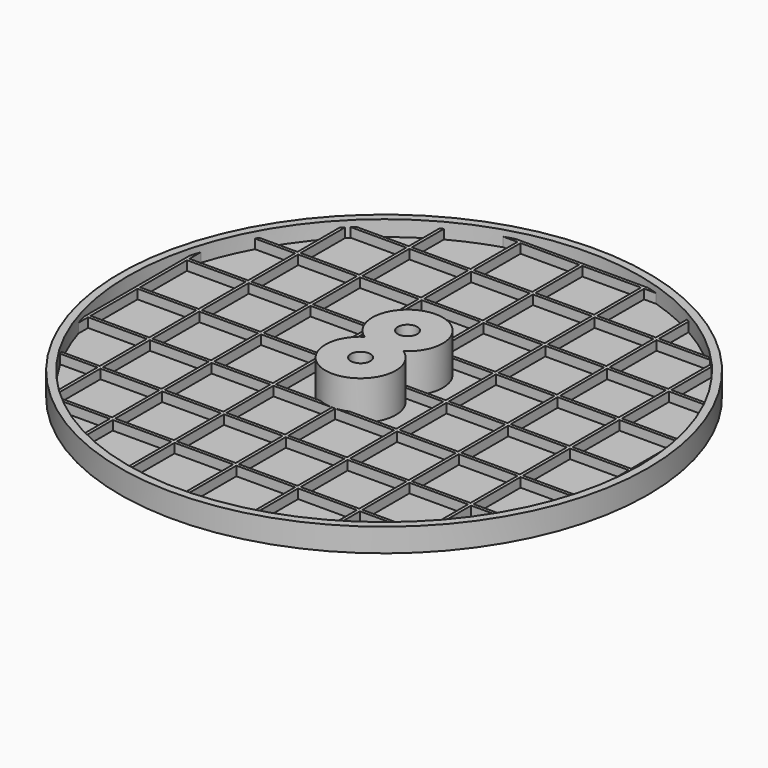
from build123d import *

# Parameters (mm, degrees)
SKETCH004_R   = 67.5
PAD002_DEPTH  = 6
SKETCH003_W   = 127.2
SKETCH003_H   = 127.2
SKETCH003_W_2 = 15
SKETCH003_H_2 = 15
PAD003_DEPTH  = 4.4
SKETCH_R      = 67.5
PAD_DEPTH     = 6
THICKNESS_T   = -2
SKETCH001_R   = 2.5
PAD001_DEPTH  = 10
SKETCH002_R   = 4.5
POCKET_DEPTH  = 4.4


with BuildPart() as body002:
    # Sketch004 → Pad002 (new body)
    with BuildSketch(Plane.XY):
        Circle(SKETCH004_R)
    extrude(amount=PAD002_DEPTH)


with BuildPart() as grid:
    # Sketch003 → Pad003 (new body)
    with BuildSketch(Plane.XY):
        with Locations((0.3, -0.3)):
            Rectangle(SKETCH003_W, SKETCH003_H)
        with Locations((-55, 55)):
            Rectangle(SKETCH003_W_2, SKETCH003_H_2, mode=Mode.SUBTRACT)
        with Locations((-39.2, 55)):
            Rectangle(SKETCH003_W_2, SKETCH003_H_2, mode=Mode.SUBTRACT)
        with Locations((-23.4, 55)):
            Rectangle(SKETCH003_W_2, SKETCH003_H_2, mode=Mode.SUBTRACT)
        with Locations((-7.6, 55)):
            Rectangle(SKETCH003_W_2, SKETCH003_H_2, mode=Mode.SUBTRACT)
        with Locations((-55, 39.2)):
            Rectangle(SKETCH003_W_2, SKETCH003_H_2, mode=Mode.SUBTRACT)
        with Locations((-39.2, 39.2)):
            Rectangle(SKETCH003_W_2, SKETCH003_H_2, mode=Mode.SUBTRACT)
        with Locations((-23.4, 39.2)):
            Rectangle(SKETCH003_W_2, SKETCH003_H_2, mode=Mode.SUBTRACT)
        with Locations((-7.6, 39.2)):
            Rectangle(SKETCH003_W_2, SKETCH003_H_2, mode=Mode.SUBTRACT)
        with Locations((-55, 23.4)):
            Rectangle(SKETCH003_W_2, SKETCH003_H_2, mode=Mode.SUBTRACT)
        with Locations((-39.2, 23.4)):
            Rectangle(SKETCH003_W_2, SKETCH003_H_2, mode=Mode.SUBTRACT)
        with Locations((-23.4, 23.4)):
            Rectangle(SKETCH003_W_2, SKETCH003_H_2, mode=Mode.SUBTRACT)
        with Locations((-7.6, 23.4)):
            Rectangle(SKETCH003_W_2, SKETCH003_H_2, mode=Mode.SUBTRACT)
        with Locations((-55, 7.6)):
            Rectangle(SKETCH003_W_2, SKETCH003_H_2, mode=Mode.SUBTRACT)
        with Locations((-39.2, 7.6)):
            Rectangle(SKETCH003_W_2, SKETCH003_H_2, mode=Mode.SUBTRACT)
        with Locations((-23.4, 7.6)):
            Rectangle(SKETCH003_W_2, SKETCH003_H_2, mode=Mode.SUBTRACT)
        with Locations((-7.6, 7.6)):
            Rectangle(SKETCH003_W_2, SKETCH003_H_2, mode=Mode.SUBTRACT)
        with Locations((8.2, 55)):
            Rectangle(SKETCH003_W_2, SKETCH003_H_2, mode=Mode.SUBTRACT)
        with Locations((24, 55)):
            Rectangle(SKETCH003_W_2, SKETCH003_H_2, mode=Mode.SUBTRACT)
        with Locations((39.8, 55)):
            Rectangle(SKETCH003_W_2, SKETCH003_H_2, mode=Mode.SUBTRACT)
        with Locations((55.6, 55)):
            Rectangle(SKETCH003_W_2, SKETCH003_H_2, mode=Mode.SUBTRACT)
        with Locations((8.2, 39.2)):
            Rectangle(SKETCH003_W_2, SKETCH003_H_2, mode=Mode.SUBTRACT)
        with Locations((24, 39.2)):
            Rectangle(SKETCH003_W_2, SKETCH003_H_2, mode=Mode.SUBTRACT)
        with Locations((39.8, 39.2)):
            Rectangle(SKETCH003_W_2, SKETCH003_H_2, mode=Mode.SUBTRACT)
        with Locations((55.6, 39.2)):
            Rectangle(SKETCH003_W_2, SKETCH003_H_2, mode=Mode.SUBTRACT)
        with Locations((8.2, 23.4)):
            Rectangle(SKETCH003_W_2, SKETCH003_H_2, mode=Mode.SUBTRACT)
        with Locations((24, 23.4)):
            Rectangle(SKETCH003_W_2, SKETCH003_H_2, mode=Mode.SUBTRACT)
        with Locations((39.8, 23.4)):
            Rectangle(SKETCH003_W_2, SKETCH003_H_2, mode=Mode.SUBTRACT)
        with Locations((55.6, 23.4)):
            Rectangle(SKETCH003_W_2, SKETCH003_H_2, mode=Mode.SUBTRACT)
        with Locations((8.2, 7.6)):
            Rectangle(SKETCH003_W_2, SKETCH003_H_2, mode=Mode.SUBTRACT)
        with Locations((24, 7.6)):
            Rectangle(SKETCH003_W_2, SKETCH003_H_2, mode=Mode.SUBTRACT)
        with Locations((39.8, 7.6)):
            Rectangle(SKETCH003_W_2, SKETCH003_H_2, mode=Mode.SUBTRACT)
        with Locations((55.6, 7.6)):
            Rectangle(SKETCH003_W_2, SKETCH003_H_2, mode=Mode.SUBTRACT)
        with Locations((-55, -8.2)):
            Rectangle(SKETCH003_W_2, SKETCH003_H_2, mode=Mode.SUBTRACT)
        with Locations((-39.2, -8.2)):
            Rectangle(SKETCH003_W_2, SKETCH003_H_2, mode=Mode.SUBTRACT)
        with Locations((-23.4, -8.2)):
            Rectangle(SKETCH003_W_2, SKETCH003_H_2, mode=Mode.SUBTRACT)
        with Locations((-7.6, -8.2)):
            Rectangle(SKETCH003_W_2, SKETCH003_H_2, mode=Mode.SUBTRACT)
        with Locations((-55, -24)):
            Rectangle(SKETCH003_W_2, SKETCH003_H_2, mode=Mode.SUBTRACT)
        with Locations((-39.2, -24)):
            Rectangle(SKETCH003_W_2, SKETCH003_H_2, mode=Mode.SUBTRACT)
        with Locations((-23.4, -24)):
            Rectangle(SKETCH003_W_2, SKETCH003_H_2, mode=Mode.SUBTRACT)
        with Locations((-7.6, -24)):
            Rectangle(SKETCH003_W_2, SKETCH003_H_2, mode=Mode.SUBTRACT)
        with Locations((-55, -39.8)):
            Rectangle(SKETCH003_W_2, SKETCH003_H_2, mode=Mode.SUBTRACT)
        with Locations((-39.2, -39.8)):
            Rectangle(SKETCH003_W_2, SKETCH003_H_2, mode=Mode.SUBTRACT)
        with Locations((-23.4, -39.8)):
            Rectangle(SKETCH003_W_2, SKETCH003_H_2, mode=Mode.SUBTRACT)
        with Locations((-7.6, -39.8)):
            Rectangle(SKETCH003_W_2, SKETCH003_H_2, mode=Mode.SUBTRACT)
        with Locations((-55, -55.6)):
            Rectangle(SKETCH003_W_2, SKETCH003_H_2, mode=Mode.SUBTRACT)
        with Locations((-39.2, -55.6)):
            Rectangle(SKETCH003_W_2, SKETCH003_H_2, mode=Mode.SUBTRACT)
        with Locations((-23.4, -55.6)):
            Rectangle(SKETCH003_W_2, SKETCH003_H_2, mode=Mode.SUBTRACT)
        with Locations((-7.6, -55.6)):
            Rectangle(SKETCH003_W_2, SKETCH003_H_2, mode=Mode.SUBTRACT)
        with Locations((8.2, -8.2)):
            Rectangle(SKETCH003_W_2, SKETCH003_H_2, mode=Mode.SUBTRACT)
        with Locations((24, -8.2)):
            Rectangle(SKETCH003_W_2, SKETCH003_H_2, mode=Mode.SUBTRACT)
        with Locations((39.8, -8.2)):
            Rectangle(SKETCH003_W_2, SKETCH003_H_2, mode=Mode.SUBTRACT)
        with Locations((55.6, -8.2)):
            Rectangle(SKETCH003_W_2, SKETCH003_H_2, mode=Mode.SUBTRACT)
        with Locations((8.2, -24)):
            Rectangle(SKETCH003_W_2, SKETCH003_H_2, mode=Mode.SUBTRACT)
        with Locations((24, -24)):
            Rectangle(SKETCH003_W_2, SKETCH003_H_2, mode=Mode.SUBTRACT)
        with Locations((39.8, -24)):
            Rectangle(SKETCH003_W_2, SKETCH003_H_2, mode=Mode.SUBTRACT)
        with Locations((55.6, -24)):
            Rectangle(SKETCH003_W_2, SKETCH003_H_2, mode=Mode.SUBTRACT)
        with Locations((8.2, -39.8)):
            Rectangle(SKETCH003_W_2, SKETCH003_H_2, mode=Mode.SUBTRACT)
        with Locations((24, -39.8)):
            Rectangle(SKETCH003_W_2, SKETCH003_H_2, mode=Mode.SUBTRACT)
        with Locations((39.8, -39.8)):
            Rectangle(SKETCH003_W_2, SKETCH003_H_2, mode=Mode.SUBTRACT)
        with Locations((55.6, -39.8)):
            Rectangle(SKETCH003_W_2, SKETCH003_H_2, mode=Mode.SUBTRACT)
        with Locations((8.2, -55.6)):
            Rectangle(SKETCH003_W_2, SKETCH003_H_2, mode=Mode.SUBTRACT)
        with Locations((24, -55.6)):
            Rectangle(SKETCH003_W_2, SKETCH003_H_2, mode=Mode.SUBTRACT)
        with Locations((39.8, -55.6)):
            Rectangle(SKETCH003_W_2, SKETCH003_H_2, mode=Mode.SUBTRACT)
        with Locations((55.6, -55.6)):
            Rectangle(SKETCH003_W_2, SKETCH003_H_2, mode=Mode.SUBTRACT)
    extrude(amount=PAD003_DEPTH)

    # Boolean: intersect Body002
    add(body002.part, mode=Mode.INTERSECT)


with BuildPart() as bed:
    # Sketch → Pad (new body)
    with BuildSketch(Plane.XY):
        Circle(SKETCH_R)
    extrude(amount=PAD_DEPTH)

    # Thickness
    thickness_openings = [bed.faces().sort_by_distance(p)[0] for p in [
        (0, 0, 6),
    ]]
    offset(amount=THICKNESS_T, openings=thickness_openings)

    # Sketch001 (on DatumPlane) → Pad001 (join)
    with BuildSketch(Plane.XY.offset(2)):
        with BuildLine():
            ThreePointArc((4.974937, 0), (0, 16.5), (-4.974937, 0))
            ThreePointArc((-4.974937, 0), (0, -16.5), (4.974937, 0))
        make_face()
        with Locations((0, 7.5)):
            Circle(SKETCH001_R, mode=Mode.SUBTRACT)
        with Locations((0, -7.5)):
            Circle(SKETCH001_R, mode=Mode.SUBTRACT)
    extrude(amount=PAD001_DEPTH)

    # Boolean001: union Grid
    add(grid.part)

    # Sketch002 → Pocket (cut)
    with BuildSketch(Plane.XY):
        with Locations((0, 7.5)):
            Circle(SKETCH002_R)
        with Locations((0, -7.5)):
            Circle(SKETCH002_R)
    extrude(amount=POCKET_DEPTH, mode=Mode.SUBTRACT)


solid = bed.part
